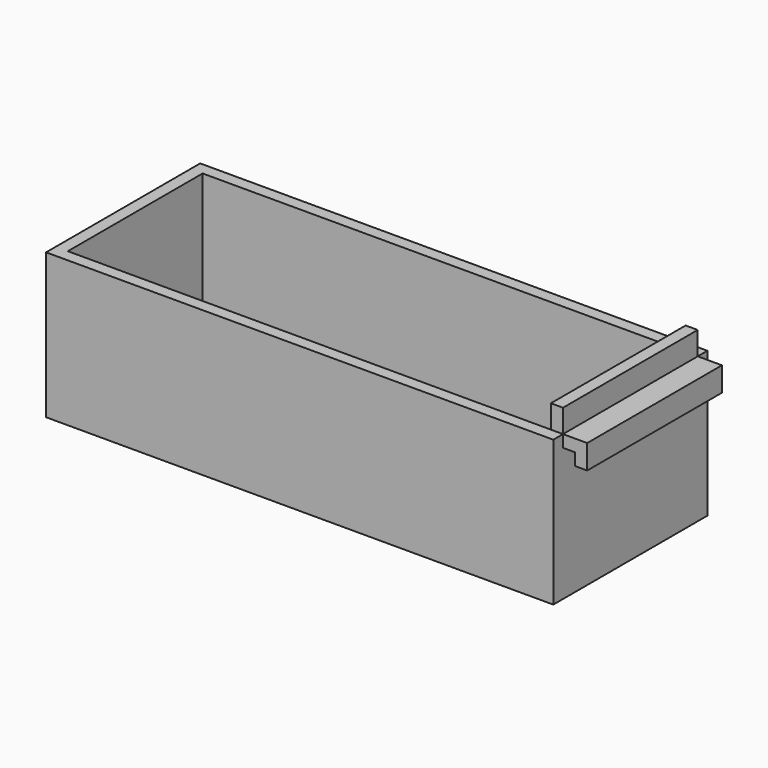
from build123d import *

# Parameters (mm, degrees)
F0_W     = 66.548
F0_H     = 25.273
F1_DEPTH = 3.175
F2_W     = 66.548
F2_H     = 25.273
F2_W_2   = 63.373
F2_H_2   = 22.098
F3_DEPTH = 15.875
F4_W     = 1.5875
F4_H     = 22.098
F5_DEPTH = 3.048
F6_W     = 22.098
F6_H     = 1.5875
F7_DEPTH = 3.175
F8_W     = 1.5875
F8_H     = 22.098
F9_DEPTH = 1.5875


with BuildPart() as f1:
    # F0 (on Top) → F1 (new body)
    with BuildSketch(Plane.XY):
        with Locations((33.274, -12.6365)):
            Rectangle(F0_W, F0_H)
    extrude(amount=F1_DEPTH)

    # F2 (on face) → F3 (join)
    with BuildSketch(Plane.XY.offset(3.175)):
        with Locations((33.274, -12.6365)):
            Rectangle(F2_W, F2_H)
        with Locations((33.274, -12.6365)):
            Rectangle(F2_W_2, F2_H_2, mode=Mode.SUBTRACT)
    extrude(amount=F3_DEPTH)

    # F4 (on face) → F5 (join)
    with BuildSketch(Plane.XY.offset(19.05)):
        with Locations((65.75425, -12.6365)):
            Rectangle(F4_W, F4_H)
    extrude(amount=F5_DEPTH)

    # F6 (on face) → F7 (join)
    with BuildSketch(Plane.YZ.offset(66.548)):
        with Locations((-12.6365, 18.25625)):
            Rectangle(F6_W, F6_H)
    extrude(amount=F7_DEPTH)

    # F8 (on face) → F9 (join)
    with BuildSketch(Plane(origin=(0, 0, 17.4625), x_dir=(1, 0, 0), z_dir=(0, 0, -1))):
        with Locations((68.92925, 12.6365)):
            Rectangle(F8_W, F8_H)
    extrude(amount=F9_DEPTH)


solid = f1.part
